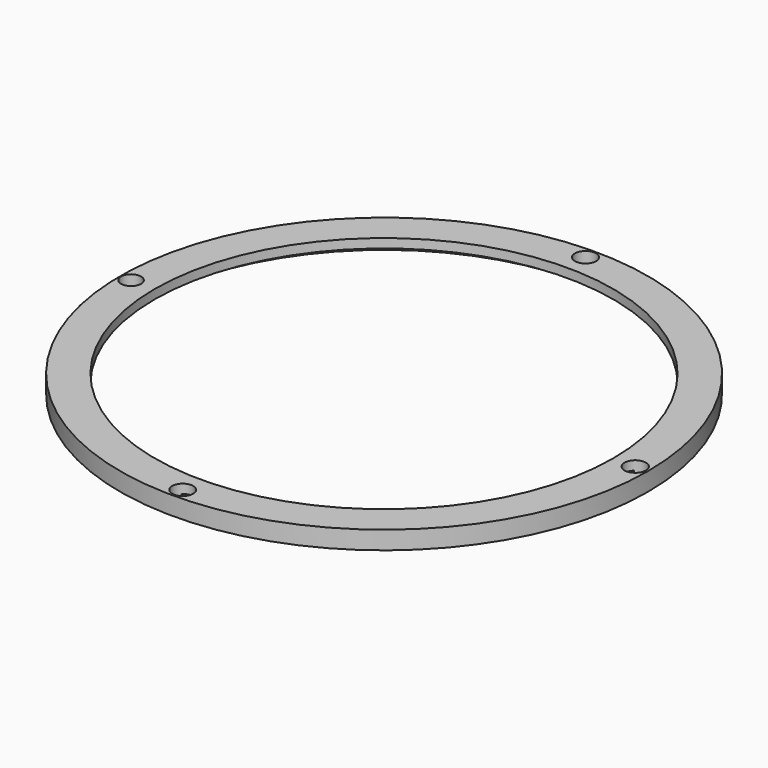
from build123d import *

# Parameters (mm, degrees)
SKETCH016_R     = 58.002282
PAD003_DEPTH    = 4
SKETCH017_R     = 53.661605
POCKET009_DEPTH = 2
SKETCH018_R     = 50.382199
POCKET010_DEPTH = 10
SKETCH019_R     = 2.342621
SKETCH019_R_2   = 2.309522
SKETCH019_R_3   = 2.201756
SKETCH019_R_4   = 2.329825
POCKET011_DEPTH = 5


with BuildPart() as part:
    # Sketch016 → Pad003 (new body)
    with BuildSketch(Plane.XY.offset(100)):
        with Locations((0.009453, 0.01044)):
            Circle(SKETCH016_R)
    extrude(amount=PAD003_DEPTH)

    # Sketch017 → Pocket009 (cut)
    with BuildSketch(Plane(origin=(0, 0, 100), x_dir=(1, 0, 0), z_dir=(0, 0, -1))):
        Circle(SKETCH017_R)
    extrude(amount=-POCKET009_DEPTH, mode=Mode.SUBTRACT)

    # Sketch018 → Pocket010 (cut)
    with BuildSketch(Plane(origin=(0, 0, 102), x_dir=(1, 0, 0), z_dir=(0, 0, -1))):
        Circle(SKETCH018_R)
    extrude(amount=-POCKET010_DEPTH, mode=Mode.SUBTRACT)

    # Sketch019 → Pocket011 (cut)
    with BuildSketch(Plane.XY.offset(104)):
        with Locations((55.227253, -0.025824)):
            Circle(SKETCH019_R)
        with Locations((0.006845, -55.291275)):
            Circle(SKETCH019_R_2)
        with Locations((-55.584568, 0.009231)):
            Circle(SKETCH019_R_3)
        with Locations((-0.004998, 55.371342)):
            Circle(SKETCH019_R_4)
    extrude(amount=-POCKET011_DEPTH, mode=Mode.SUBTRACT)


solid = part.part
